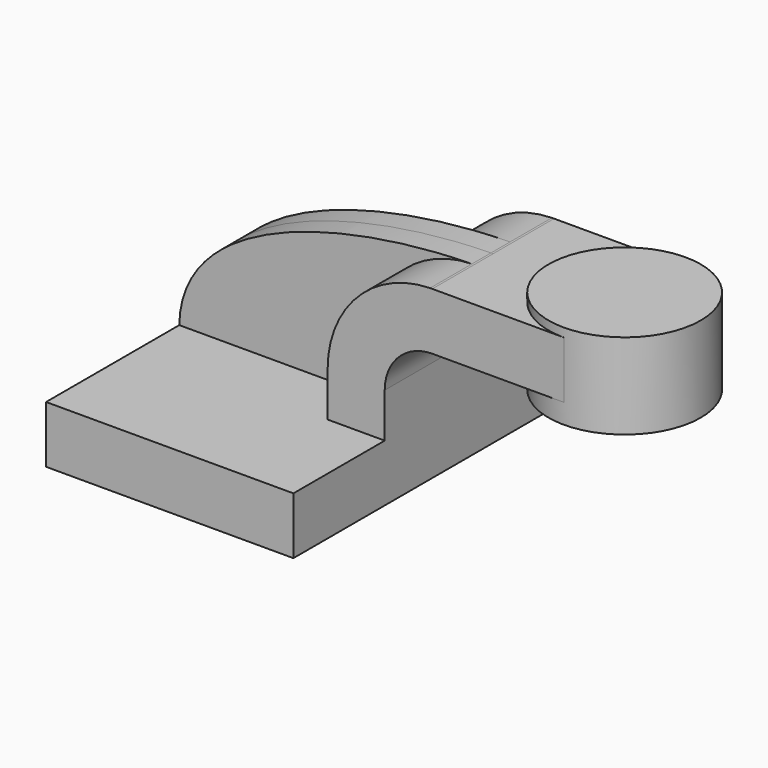
from build123d import *

# Parameters (mm, degrees)
F1_DEPTH = 63.5
F0_W     = 25.4
F0_H     = 19.05
F2_DEPTH = 25.4
F3_DEPTH = 7.9375


with BuildPart() as f1:
    # F0 (on Front) → F1 (new body, symmetric)
    with BuildSketch(Plane.XZ):
        Polygon((22.225, 9.525), (-41.275, 9.525), (-41.275, -9.525), (41.275, -9.525), (41.275, 9.525), align=None)
    extrude(amount=F1_DEPTH, both=True)

    # F0 (on Front) → F2 (join, symmetric)
    with BuildSketch(Plane.XZ):
        with BuildLine():
            Line((22.225, 24.3588639732), (22.225, 9.525))
            Line((22.225, 9.525), (41.275, 9.525))
            Line((41.275, 9.525), (41.275, 24.3588639732))
            ThreePointArc((41.275, 24.3588639732), (45.9246798487, 35.5841841245), (57.15, 40.2338639732))
            Line((57.15, 40.2338639732), (75.6350584984, 40.2338639732))
            Line((75.6350584984, 40.2338639732), (75.6350584984, 59.2838639732))
            Line((75.6350584984, 59.2838639732), (57.15, 59.2838639732))
            add(Edge.make_bspline(
                [(56.4216107745, 59.2762675727), (56.6651505672, 59.2792783634), (56.9079531463, 59.2818095803), (57.15, 59.2838639732)],
                knots=[109.6042187191, 109.6042187191, 109.6042187191, 109.6042187191, 110.287919415, 110.287919415, 110.287919415, 110.287919415], degree=3))
            ThreePointArc((56.4216107745, 59.2762675727), (32.1981000854, 48.7956869183), (22.225, 24.3588639732))
        make_face()
        with Locations((88.3350584984, 49.7588639732)):
            Rectangle(F0_W, F0_H)
    extrude(amount=F2_DEPTH, both=True)

    # F0 (on Front) → F3 (join, symmetric)
    with BuildSketch(Plane.XZ):
        with BuildLine():
            add(Edge.make_bspline(
                [(-41.275, 9.525), (-40.6081550387, 45.986200262), (17.3796895691, 58.793607011), (56.4216107745, 59.2762675727)],
                knots=[0, 0, 0, 0, 109.6042187191, 109.6042187191, 109.6042187191, 109.6042187191], degree=3))
            Line((-41.275, 9.525), (22.225, 9.525))
            Line((22.225, 9.525), (22.225, 24.3588639732))
            ThreePointArc((22.225, 24.3588639732), (32.1981000854, 48.7956869183), (56.4216107745, 59.2762675727))
        make_face()
    extrude(amount=F3_DEPTH, both=True)

    # F0 (on Front) → F4 (revolve)
    with BuildSketch(Plane.XZ):
        Polygon((101.0350584984, 62.2014122894), (101.0350584984, 59.2838639732), (101.0350584984, 40.2338639732), (101.0350584984, 33.6264122894), (126.4350584984, 33.6264122894), (126.4350584984, 62.2014122894), align=None)
    revolve(axis=Axis((101.0350584984, 0, 47.9139122894), (0, 0, -1)))


solid = f1.part
